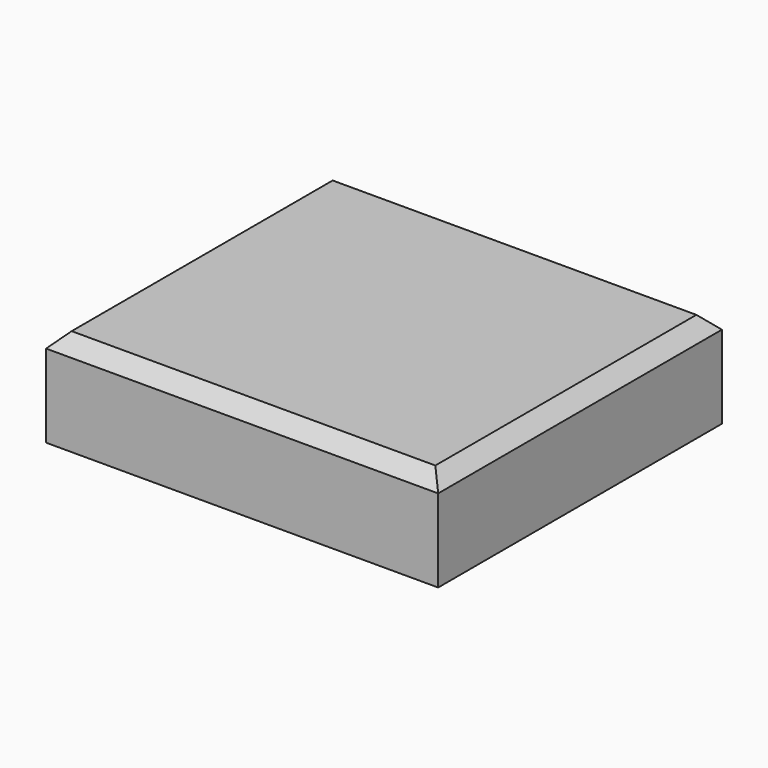
from build123d import *

# Parameters (mm, degrees)
F0_W     = 140.363396
F0_H     = 126.961306
F1_DEPTH = 34.73974
F2_SIZE  = 5.08


with BuildPart() as f1:
    # F0 (on Top) → F1 (new body)
    with BuildSketch(Plane.XY):
        Rectangle(F0_W, F0_H)
    extrude(amount=F1_DEPTH)

    # F2
    f2_edges = [f1.edges().sort_by_distance(p)[0] for p in [
        (0, -63.480653, 34.73974),
        (-70.181698, 0, 34.73974),
        (0, 63.480653, 34.73974),
        (70.181698, 0, 34.73974),
    ]]
    chamfer(f2_edges, length=F2_SIZE)


solid = f1.part
